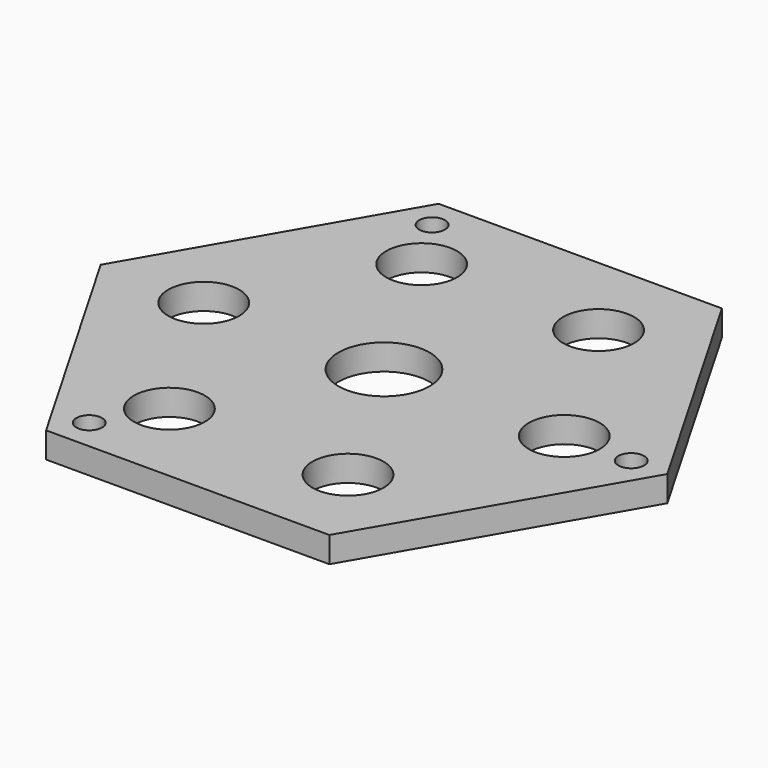
from build123d import *

# Parameters (mm, degrees)
F1_DEPTH = 6.35
F2_D     = 17.5
F3_D     = 6.35
F4_D     = 22.5


with BuildPart() as f1:
    # F0 (on Top) → F1 (new body)
    with BuildSketch(Plane.XY):
        Polygon((38.1, 65.9911357684), (-31.75, 65.9911357684), (-66.675, 5.499261314), (-31.75, -54.9926131403), (38.1, -54.9926131403), (73.025, 5.499261314), align=None)
    extrude(amount=F1_DEPTH)

    # F2 (through all)
    with Locations(Plane(origin=(0, 0, 0), x_dir=(1, 0, 0), z_dir=(0, 0, -1))):
        with Locations((25.195854684, -44.1132237642), (47.625, -5.499261314), (25.195854684, 33.1147011361), (-18.845854684, 33.1147011361), (-41.275, -5.499261314), (-18.5662683496, -44.2805572462)):
            Hole(F2_D / 2)

    # F3 (through all)
    with Locations(Plane(origin=(0, 0, 0), x_dir=(1, 0, 0), z_dir=(0, 0, -1))):
        with Locations((64.135, -5.499261314), (-27.2335491394, 47.3353439388), (-27.2335491394, -58.3338665669)):
            Hole(F3_D / 2)

    # F4 (through all)
    with Locations(Plane(origin=(0, 0, 0), x_dir=(1, 0, 0), z_dir=(0, 0, -1))):
        with Locations((3.175, -5.499261314)):
            Hole(F4_D / 2)


solid = f1.part
